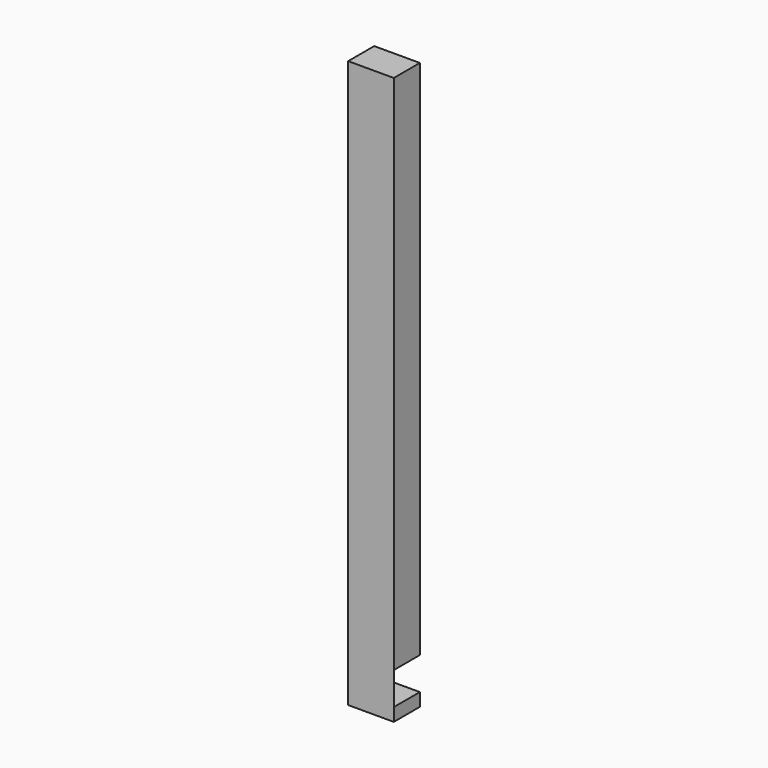
from build123d import *

# Parameters (mm, degrees)
F0_W     = 35
F0_H     = 25
F1_DEPTH = 400
F3_DEPTH = 25
F5_DEPTH = 10


with BuildPart() as f1:
    # F0 (on Top) → F1 (new body)
    with BuildSketch(Plane.XY):
        with Locations((-42.358379, -48.249161)):
            Rectangle(F0_W, F0_H)
    extrude(amount=F1_DEPTH)

    # F2 (on face) → F3 (join)
    with BuildSketch(Plane(origin=(0, 0, 0), x_dir=(1, 0, 0), z_dir=(0, 0, -1))):
        Polygon((-49.858379, 35.749161), (-24.858379, 60.749161), (-59.858379, 60.749161), (-59.858379, 35.749161), align=None)
    extrude(amount=F3_DEPTH)

    # F4 (on face) → F5 (join)
    with BuildSketch(Plane(origin=(0, 0, -25), x_dir=(1, 0, 0), z_dir=(0, 0, -1))):
        Polygon((-24.858379, 60.749161), (-59.858379, 60.749161), (-59.858379, 35.749161), (-49.858379, 35.749161), align=None)
        Polygon((-24.858379, 35.749161), (-24.858379, 60.749161), (-49.858379, 35.749161), align=None)
    extrude(amount=F5_DEPTH)


solid = f1.part
